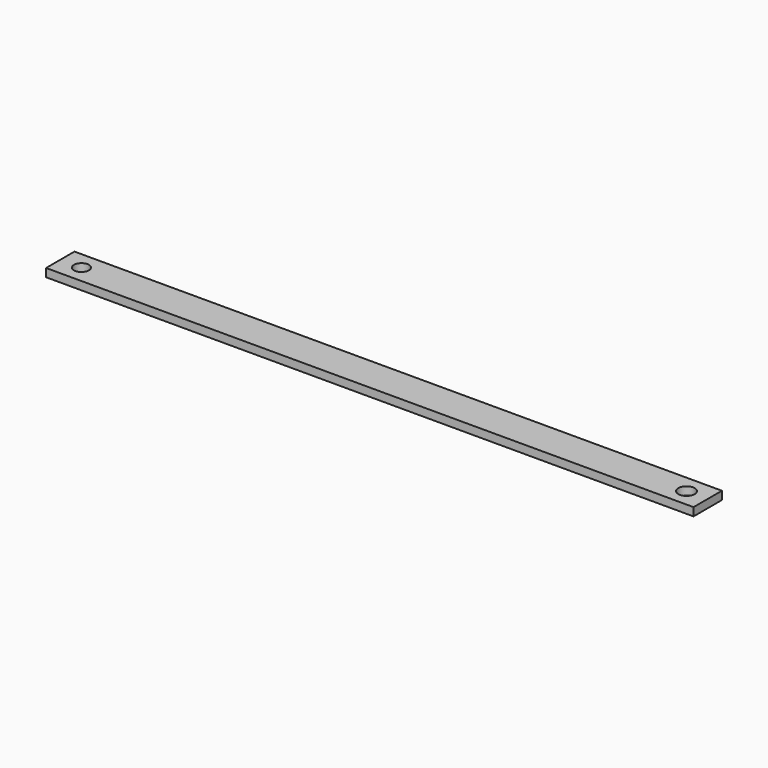
from build123d import *

# Parameters (mm, degrees)
F0_W     = 237
F0_H     = 13
F0_R     = 2.75
F0_R_2   = 3
F1_DEPTH = 3


with BuildPart() as f1:
    # F0 (on Top) → F1 (new body)
    with BuildSketch(Plane.XY):
        Rectangle(F0_W, F0_H)
        with Locations((-110.75, 0)):
            Circle(F0_R, mode=Mode.SUBTRACT)
        with Locations((110.75, 0)):
            Circle(F0_R_2, mode=Mode.SUBTRACT)
    extrude(amount=F1_DEPTH)


solid = f1.part
